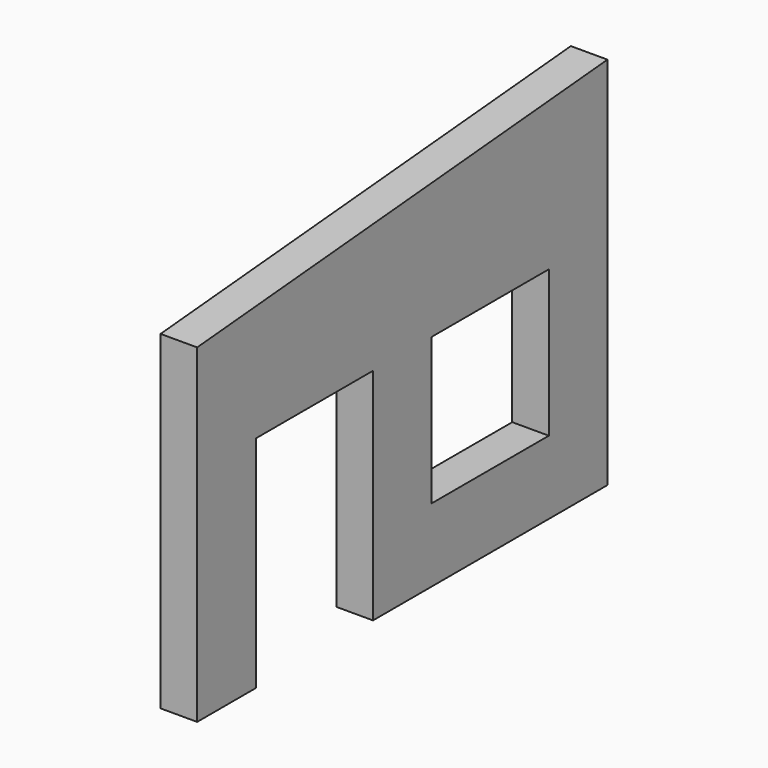
from build123d import *

# Parameters (mm, degrees)
F1_DEPTH = 6.35
F2_W     = 25.4
F2_H     = 38.1
F2_H_2   = 25.4
F3_DEPTH = 6.351


with BuildPart() as f1:
    # F0 (on Right) → F1 (new body)
    with BuildSketch(Plane.YZ):
        Polygon((-44.45, 28.575), (-44.45, -28.575), (44.45, -28.575), (44.45, 28.575), (44.45, 36.352742), align=None)
    extrude(amount=F1_DEPTH)

    # F2 (on Right) → F3 (cut, through all)
    with BuildSketch(Plane.YZ):
        with Locations((-19.05, -9.525)):
            Rectangle(F2_W, F2_H)
        with Locations((19.05, -3.175)):
            Rectangle(F2_W, F2_H_2)
    extrude(amount=F3_DEPTH, mode=Mode.SUBTRACT)


solid = f1.part
